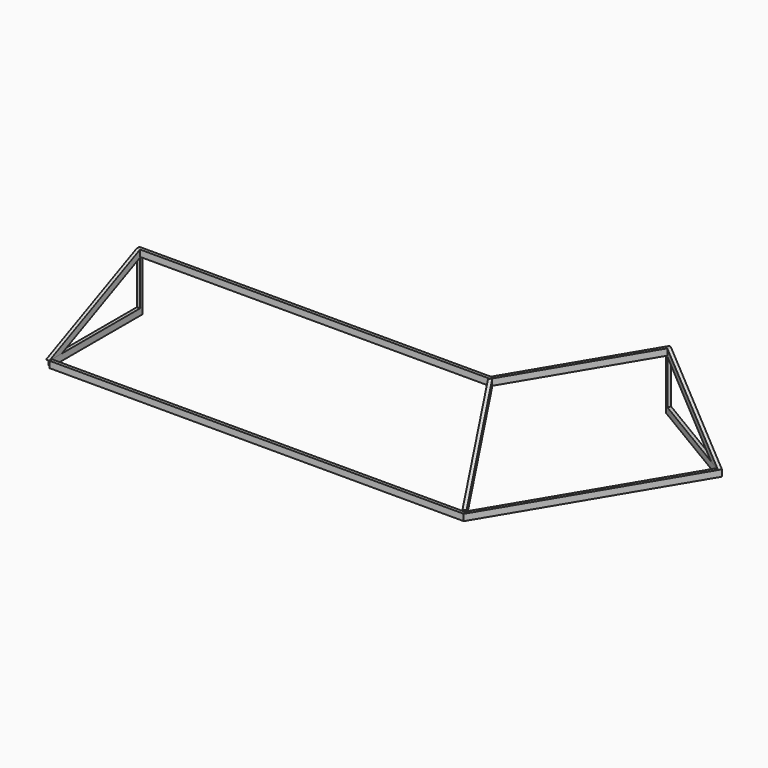
from build123d import *

# Parameters (mm, degrees)
F1_DEPTH       = 50.8
F2_DEPTH       = 50.8
F4_DEPTH       = 25.4
F5_DEPTH       = 25.4
F6_DEPTH       = 25.4
F8_DEPTH       = 25.4
F9_DEPTH       = 25.4
F10_DEPTH      = 25.4
F12_DEPTH      = 50.8
F13_DEPTH      = 50.8
F16_DEPTH      = 12.7
F16_DEPTH_BACK = 12.7


with BuildPart() as f1:
    # F0 (on Top) → F1 (new body)
    with BuildSketch(Plane.XY):
        Polygon((2755.9, 0), (0, 0), (0, -25.4), (2770.3057624632, -25.4), align=None)
    extrude(amount=-F1_DEPTH)


with BuildPart() as f2:
    # F0 (on Top) → F2 (new body)
    with BuildSketch(Plane.XY):
        Polygon((3355.5716018378, 1002.7724218133), (2755.9, 0), (2770.3057624632, -25.4), (3377.371002312, 989.7360826429), align=None)
    extrude(amount=-F2_DEPTH)


with BuildPart() as f4:
    # F3 (on Right) → F4 (new body)
    with BuildSketch(Plane.YZ):
        Polygon((-792.2140530789, -406.4), (-25.4, -55.8564328782), (-25.4, -50.8), (-25.4, 0), (-914.4, -406.4), (-889, -406.4), align=None)
    extrude(amount=F4_DEPTH)


with BuildPart() as f5:
    # F3 (on Right) → F5 (new body)
    with BuildSketch(Plane.YZ):
        Polygon((-25.4, -50.8), (-25.4, -55.8564328782), (-25.4, -406.4), (0, -406.4), (0, -50.8), align=None)
    extrude(amount=F5_DEPTH)


with BuildPart() as f6:
    # F3 (on Right) → F6 (new body)
    with BuildSketch(Plane.YZ):
        Polygon((-25.4, -406.4), (-792.2140530789, -406.4), (-889, -406.4), (-889, -457.2), (0, -457.2), (0, -406.4), align=None)
    extrude(amount=F6_DEPTH)


with BuildPart() as f8:
    # F7 (on face) → F8 (new body)
    with BuildSketch(Plane(origin=(1325.6226285205, 2216.7096283002, 0), x_dir=(-0.8582441132, 0.5132416996, 0), z_dir=(0.5132416996, 0.8582441132, 0))):
        Polygon((-2390.6349514509, -50.8), (-2390.6349514509, 0), (-3279.6349514509, -406.4), (-3254.2349514509, -406.4), (-3157.4490045299, -406.4), (-2390.6349514509, -55.8564328782), align=None)
    extrude(amount=-F8_DEPTH)


with BuildPart() as f9:
    # F7 (on face) → F9 (new body)
    with BuildSketch(Plane(origin=(1325.6226285205, 2216.7096283002, 0), x_dir=(-0.8582441132, 0.5132416996, 0), z_dir=(0.5132416996, 0.8582441132, 0))):
        Polygon((-2365.2349514509, -50.8), (-2390.6349514509, -50.8), (-2390.6349514509, -55.8564328782), (-2390.6349514509, -406.4), (-2365.2349514509, -406.4), align=None)
    extrude(amount=-F9_DEPTH)


with BuildPart() as f10:
    # F7 (on face) → F10 (new body)
    with BuildSketch(Plane(origin=(1325.6226285205, 2216.7096283002, 0), x_dir=(-0.8582441132, 0.5132416996, 0), z_dir=(0.5132416996, 0.8582441132, 0))):
        Polygon((-3157.4490045299, -406.4), (-3254.2349514509, -406.4), (-3254.2349514509, -457.2), (-2365.2349514509, -457.2), (-2365.2349514509, -406.4), (-2390.6349514509, -406.4), align=None)
    extrude(amount=-F10_DEPTH)


with BuildPart() as f12:
    # F11 (on face) → F12 (new body)
    with BuildSketch(Plane(origin=(0, 0, -406.4), x_dir=(1, 0, 0), z_dir=(0, 0, -1))):
        Polygon((3274.5074486763, 914.4), (25.4, 914.4), (25.4, 889), (3260.1016862131, 889), align=None)
    extrude(amount=F12_DEPTH)


with BuildPart() as f13:
    # F11 (on face) → F13 (new body)
    with BuildSketch(Plane(origin=(0, 0, -406.4), x_dir=(1, 0, 0), z_dir=(0, 0, -1))):
        Polygon((4140.3500189091, -533.4642116794), (3274.5074486763, 914.4), (3260.1016862131, 889), (4118.5506184349, -546.5005508498), align=None)
    extrude(amount=F13_DEPTH)


with BuildPart() as f16:
    # F15 (on 3pt) → F16 (new body, two sides)
    with BuildSketch(Plane(origin=(2085.1713999935, 1182.6174757255, 0), x_dir=(0.4933347243, -0.8698395541, 0), z_dir=(-0.8698395541, -0.4933347243, 0))) as f16_sk:
        Polygon((2381.6087300829, -394.7885714286), (1388.781954194, 0), (1388.781954194, -54.6688801052), (2381.6087300829, -449.4574515337), align=None)
    extrude(amount=F16_DEPTH)
    extrude(f16_sk.sketch, amount=-F16_DEPTH_BACK)


solid = Compound([f1.part, f2.part, f4.part, f5.part, f6.part, f8.part, f9.part, f10.part, f12.part, f13.part, f16.part])
